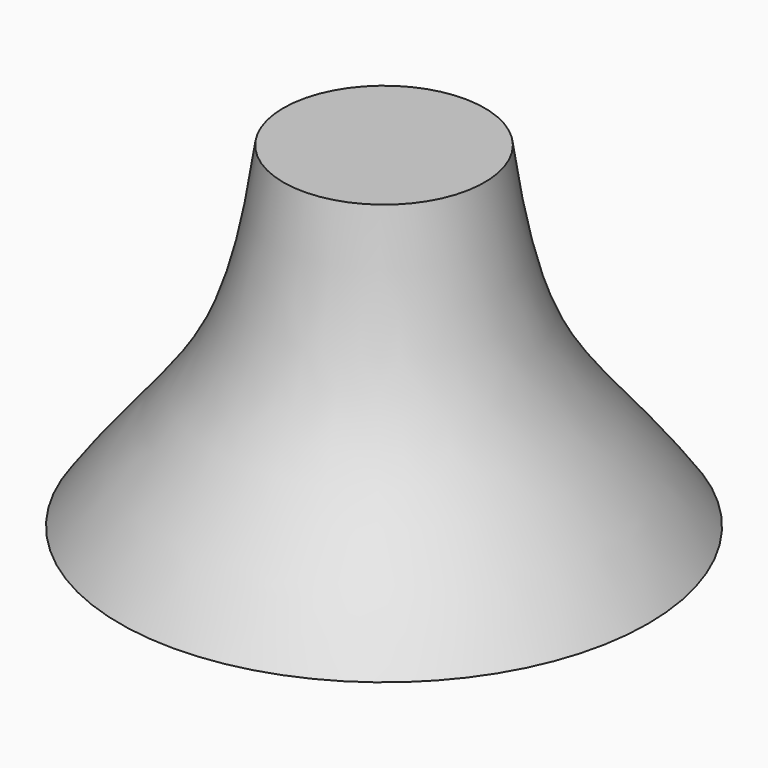
from build123d import *

# Parameters (mm, degrees)
F2_R     = 10
F3_DEPTH = 40


with BuildPart() as f1:
    # F0 (on Front) → F1 (revolve)
    with BuildSketch(Plane.XZ):
        with BuildLine():
            add(Edge.make_bspline(
                [(-15, 50), (-16.1908632406, 41.6150700931), (-19.2172283884, 21.5781897555), (-33.004084781, 9.2584811498), (-39.3406604347, 0)],
                knots=[0, 0, 0, 0, 0.487806887, 1, 1, 1, 1], degree=3))
            Line((-39.3406604347, 0), (0, 0))
            Line((0, 0), (0, 50))
            Line((0, 50), (-15, 50))
        make_face()
    revolve(axis=Axis((0, 0, 25), (0, 0, 1)))

    # F2 (on face) → F3 (cut)
    with BuildSketch(Plane(origin=(0, 0, 0), x_dir=(1, 0, 0), z_dir=(0, 0, -1))):
        Circle(F2_R)
    extrude(amount=-F3_DEPTH, mode=Mode.SUBTRACT)


solid = f1.part
